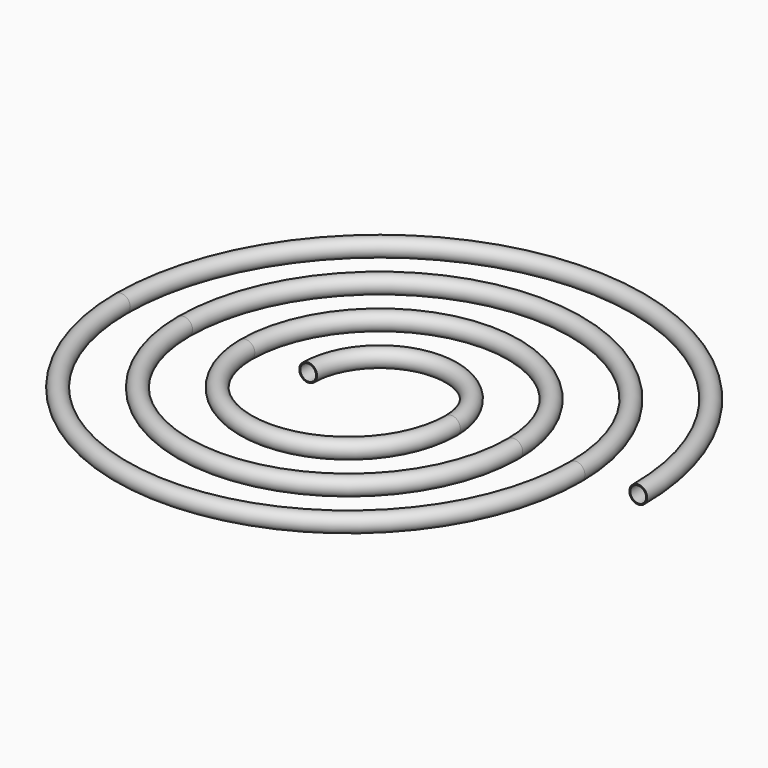
from build123d import *

# Parameters (mm, degrees)
F1_R   = 12.5
F1_R_2 = 11


with BuildPart() as f2:
    # F2: sweep along a path in F0
    with BuildLine(Plane.XY) as f2_path:
        ThreePointArc((-100, 0), (0, 100), (100, 0))
        ThreePointArc((100, 0), (-43.5, -143.5), (-187, 0))
        ThreePointArc((-187, 0), (0, 187), (187, 0))
        ThreePointArc((187, 0), (-43.5, -230.5), (-274, 0))
        ThreePointArc((-274, 0), (0, 274), (274, 0))
        ThreePointArc((274, 0), (-43.5, -317.5), (-361, 0))
        ThreePointArc((-361, 0), (0, 361), (361, 0))
    # F1 (on Front) → F2 (sweep)
    with BuildSketch(Plane.XZ):
        with Locations((-100, 0)):
            Circle(F1_R)
        with Locations((-100, 0)):
            Circle(F1_R_2, mode=Mode.SUBTRACT)
    sweep(path=f2_path.line)


solid = f2.part
